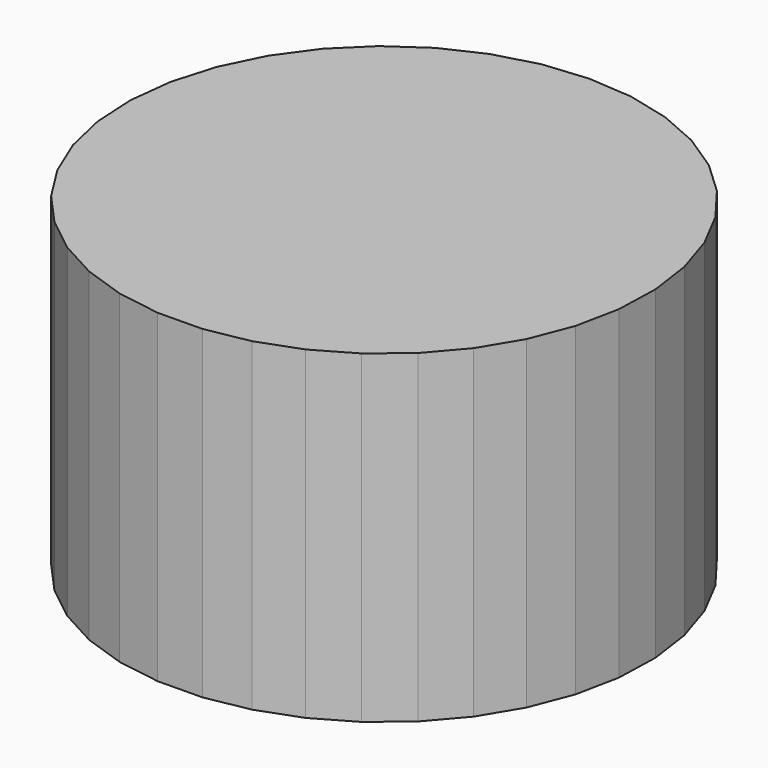
from build123d import *

# Parameters (mm, degrees)
F1_DEPTH = 55.372


with BuildPart() as f1:
    # F0 (on Top) → F1 (new body)
    with BuildSketch(Plane.XY):
        Polygon((39.90279, -19.511992), (42.626367, -12.487726), (44.123662, -5.10421), (44.351599, 2.426144), (43.303621, 9.886703), (41.009877, 17.062839), (37.536354, 23.748109), (32.982977, 29.750188), (27.480741, 34.896409), (21.187934, 39.038724), (14.285588, 42.057965), (6.972273, 43.867276), (-0.541623, 44.414605), (-8.039937, 43.684207), (-15.306956, 41.697093), (-22.133623, 38.51043), (-28.323545, 34.215892), (-33.698651, 28.937026), (-38.104307, 22.825693), (-41.413772, 16.057707), (-43.531839, 8.82777), (-44.397573, 1.343874), (-43.98607, -6.178682), (-42.309168, -13.52349), (-39.415109, -20.479251), (-35.387148, -26.845861), (-30.341164, -32.440165), (-24.422319, -37.101224), (-17.800889, -40.694949), (-10.66736, -43.117954), (-3.22695, -44.300534), (4.306293, -44.208668), (11.715652, -42.845), (18.787973, -40.248758), (25.319799, -36.494634), (31.12322, -31.690625), (36.031282, -25.974934), align=None)
    extrude(amount=F1_DEPTH)


solid = f1.part
